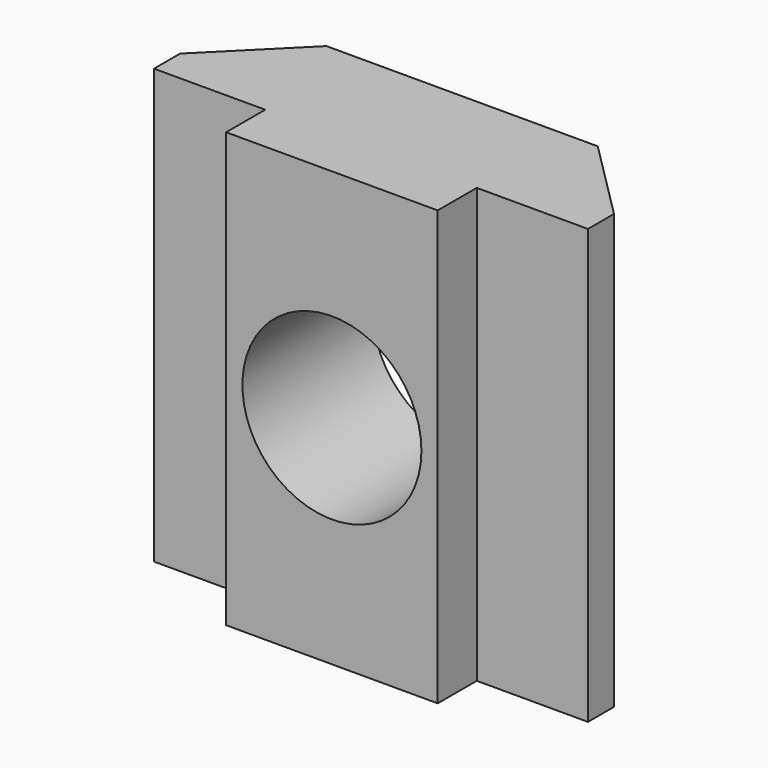
from build123d import *

# Parameters (mm, degrees)
PAD002_DEPTH   = 16
SKETCH005_R    = 3.3
HOLE002_DEPTH  = 6
HOLE002_TIPS_R = 3.3


with BuildPart() as part:
    # Sketch004 → Pad002 (new body)
    with BuildSketch(Plane.XY):
        Polygon((-5, 3), (5, 3), (8, 0), (8, -1.2), (3.9, -1.2), (3.9, -3), (-3.9, -3), (-3.9, -1.2), (-8, -1.2), (-8, 0), align=None)
    extrude(amount=PAD002_DEPTH)

    # Sketch005 (on Face6 of Pad002) → Hole002 (cut)
    with BuildSketch(Plane.XZ.offset(3)):
        with Locations((0, 8)):
            Circle(SKETCH005_R)
    extrude(amount=-HOLE002_DEPTH, mode=Mode.SUBTRACT)

    # Hole002 tips → Hole002 tip 1 section 0
    with BuildSketch(Plane.XZ.offset(-3), mode=Mode.PRIVATE) as hole002_tip_1_s0:
        with Locations((0, 8)):
            Circle(HOLE002_TIPS_R)
    loft([hole002_tip_1_s0.sketch, Vertex(0, 4.98284, 8)], mode=Mode.SUBTRACT)


solid = part.part
